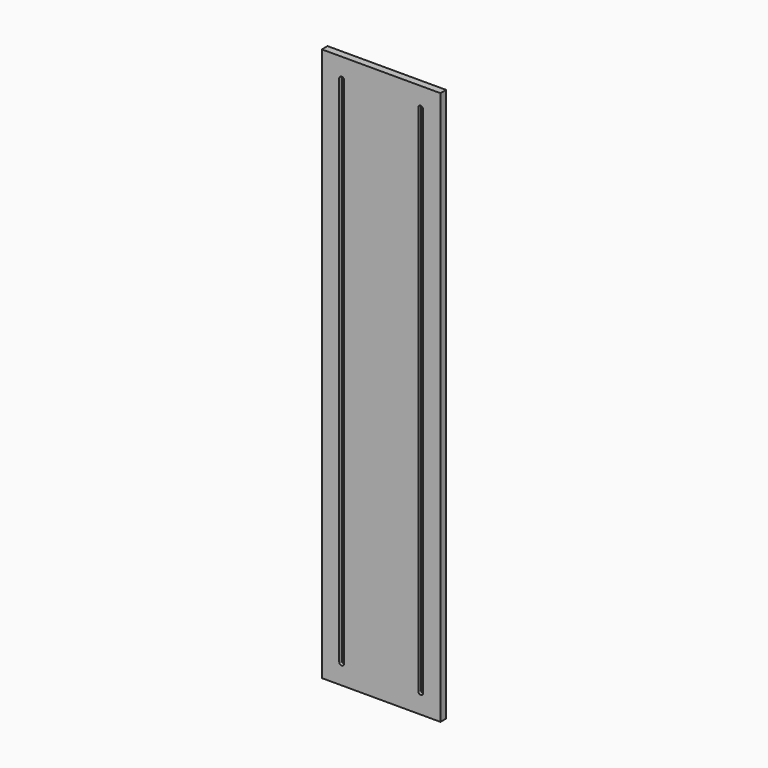
from build123d import *

# Parameters (mm, degrees)
F0_W     = 150
F0_H     = 700
F1_DEPTH = 4.5
F3_DEPTH = 9.001
F5_DEPTH = 5


with BuildPart() as f1:
    # F0 (on Front) → F1 (new body, symmetric)
    with BuildSketch(Plane.XZ):
        with Locations((13.8296149671, 359)):
            Rectangle(F0_W, F0_H)
    extrude(amount=F1_DEPTH, both=True)

    # F2 (on face) → F3 (cut, through all)
    with BuildSketch(Plane.XZ.offset(4.5)):
        with BuildLine():
            ThreePointArc((-39.1703850329, 684), (-36.1703850329, 681), (-33.1703850329, 684))
            ThreePointArc((-33.1703850329, 684), (-36.1703850329, 687), (-39.1703850329, 684))
        make_face()
        with BuildLine():
            Line((-33.1703850329, 34), (-33.1703850329, 684))
            ThreePointArc((-33.1703850329, 684), (-36.1703850329, 681), (-39.1703850329, 684))
            Line((-39.1703850329, 684), (-39.1703850329, 34))
            ThreePointArc((-39.1703850329, 34), (-36.1703850329, 37), (-33.1703850329, 34))
        make_face()
        with BuildLine():
            ThreePointArc((-39.1703850329, 34), (-36.1703850329, 31), (-33.1703850329, 34))
            ThreePointArc((-33.1703850329, 34), (-36.1703850329, 37), (-39.1703850329, 34))
        make_face()
        with BuildLine():
            ThreePointArc((60.8296149671, 684), (63.8296149671, 681), (66.8296149671, 684))
            ThreePointArc((66.8296149671, 684), (63.8296149671, 687), (60.8296149671, 684))
        make_face()
        with BuildLine():
            Line((66.8296149671, 34), (66.8296149671, 684))
            ThreePointArc((66.8296149671, 684), (63.8296149671, 681), (60.8296149671, 684))
            Line((60.8296149671, 684), (60.8296149671, 34))
            ThreePointArc((60.8296149671, 34), (63.8296149671, 37), (66.8296149671, 34))
        make_face()
        with BuildLine():
            ThreePointArc((60.8296149671, 34), (63.8296149671, 31), (66.8296149671, 34))
            ThreePointArc((66.8296149671, 34), (63.8296149671, 37), (60.8296149671, 34))
        make_face()
    extrude(amount=-F3_DEPTH, mode=Mode.SUBTRACT)

    # F4 (on face) → F5 (cut)
    with BuildSketch(Plane(origin=(0, 4.5, 0), x_dir=(-1, 0, 0), z_dir=(0, 1, 0))):
        with BuildLine():
            Line((31.1703850329, 684), (31.1703850329, 34))
            ThreePointArc((31.1703850329, 34), (36.1703850329, 29), (41.1703850329, 34))
            Line((41.1703850329, 34), (41.1703850329, 684))
            ThreePointArc((41.1703850329, 684), (36.1703850329, 689), (31.1703850329, 684))
        make_face()
        with BuildLine():
            ThreePointArc((-68.8296149671, 34), (-63.8296149671, 29), (-58.8296149671, 34))
            Line((-58.8296149671, 34), (-58.8296149671, 684))
            ThreePointArc((-58.8296149671, 684), (-63.8296149671, 689), (-68.8296149671, 684))
            Line((-68.8296149671, 684), (-68.8296149671, 34))
        make_face()
    extrude(amount=-F5_DEPTH, mode=Mode.SUBTRACT)


solid = f1.part
